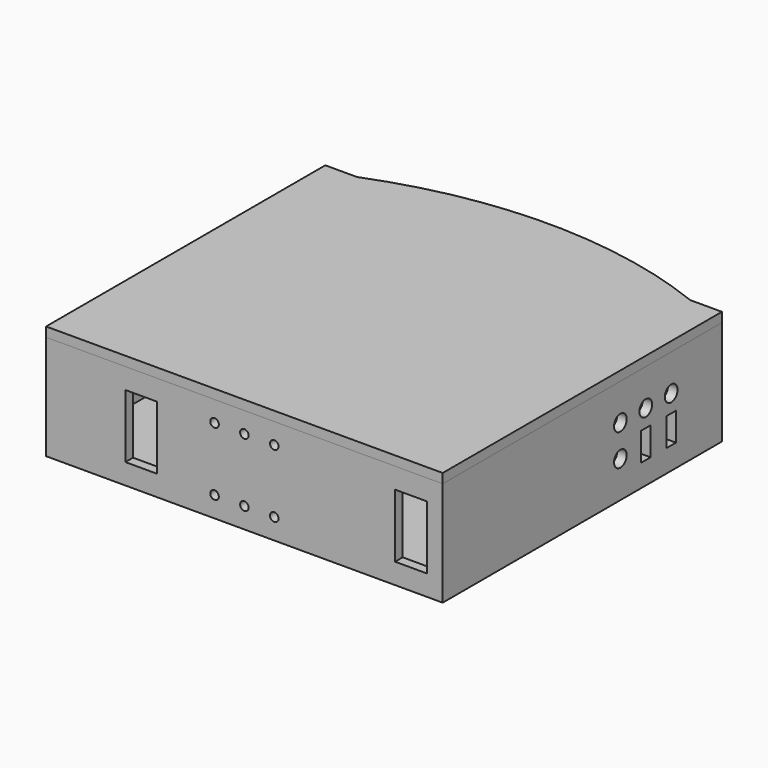
from build123d import *

# Parameters (mm, degrees)
F1_DEPTH  = 3
F3_DEPTH  = 30
F4_W      = 26.5
F4_H      = 20
F5_DEPTH  = 3
F6_W      = 30
F6_H      = 20
F7_DEPTH  = 1.5
F8_W      = 29.718
F8_H      = 21.844
F9_DEPTH  = 3
F10_W     = 10
F10_H     = 20
F11_DEPTH = 3
F12_R     = 2.5
F12_W     = 3.81
F12_H     = 8.89
F13_DEPTH = 3
F15_DEPTH = 3
F17_DEPTH = 3
F18_R     = 1.35
F19_DEPTH = 3


with BuildPart() as f1:
    # F0 (on Top) → F1 (new body)
    with BuildSketch(Plane.XY):
        with BuildLine():
            Line((0, 110), (0, 0))
            Line((0, 0), (125, 0))
            Line((125, 0), (125, 110))
            Line((125, 110), (115, 110))
            ThreePointArc((115, 110), (62.5, 120), (10, 110))
            Line((10, 110), (0, 110))
        make_face()
    extrude(amount=F1_DEPTH)

    # F2 (on face) → F3 (join)
    with BuildSketch(Plane.XY.offset(3)):
        with BuildLine():
            ThreePointArc((115, 110), (62.5, 120), (10, 110))
            Line((10, 110), (0, 110))
            Line((0, 110), (0, 0))
            Line((0, 0), (125, 0))
            Line((125, 0), (125, 110))
            Line((125, 110), (115, 110))
        make_face()
        with BuildLine():
            Line((122, 107), (122, 3))
            Line((122, 3), (3, 3))
            Line((3, 3), (3, 107))
            Line((3, 107), (10.5745727028, 107))
            ThreePointArc((10.5745727028, 107), (62.5, 117), (114.4254272972, 107))
            Line((114.4254272972, 107), (122, 107))
        make_face(mode=Mode.SUBTRACT)
    extrude(amount=F3_DEPTH)

    # F4 (on face) → F5 (cut, through all)
    with BuildSketch(Plane(origin=(0, 0, 0), x_dir=(0, -1, 0), z_dir=(-1, 0, 0))):
        with Locations((-23.25, 16.5)):
            Rectangle(F4_W, F4_H)
    extrude(amount=-F5_DEPTH, mode=Mode.SUBTRACT)

    # F6 (on face) → F7 (cut)
    with BuildSketch(Plane.YZ.offset(3)):
        with Locations((23.25, 16.5)):
            Rectangle(F6_W, F6_H)
    extrude(amount=-F7_DEPTH, mode=Mode.SUBTRACT)

    # F8 (on face) → F9 (cut, through all)
    with BuildSketch(Plane(origin=(0, 0, 0), x_dir=(0, -1, 0), z_dir=(-1, 0, 0))):
        with Locations((-81.359, 16.5)):
            Rectangle(F8_W, F8_H)
    extrude(amount=-F9_DEPTH, mode=Mode.SUBTRACT)

    # F10 (on face) → F11 (cut, through all)
    with BuildSketch(Plane.XZ):
        with Locations((30, 16.5)):
            Rectangle(F10_W, F10_H)
        with Locations((115, 16.5)):
            Rectangle(F10_W, F10_H)
    extrude(amount=-F11_DEPTH, mode=Mode.SUBTRACT)

    # F12 (on face) → F13 (cut, through all)
    with BuildSketch(Plane.YZ.offset(125)):
        with Locations((90, 21.5)):
            Circle(F12_R)
        with Locations((80, 21.5)):
            Circle(F12_R)
        with Locations((70, 21.5)):
            Circle(F12_R)
        with Locations((70, 11.5)):
            Circle(F12_R)
        with Locations((80, 11.5)):
            Rectangle(F12_W, F12_H)
        with Locations((90, 11.5)):
            Rectangle(F12_W, F12_H)
    extrude(amount=-F13_DEPTH, mode=Mode.SUBTRACT)

    # F18 (on face) → F19 (cut, through all)
    with BuildSketch(Plane.XZ):
        with Locations((53.089, 6.5)):
            Circle(F18_R)
        with Locations((53.089, 26.5)):
            Circle(F18_R)
        with Locations((62.5, 6.5)):
            Circle(F18_R)
        with Locations((62.5, 26.5)):
            Circle(F18_R)
        with Locations((71.911, 6.5)):
            Circle(F18_R)
        with Locations((71.911, 26.5)):
            Circle(F18_R)
    extrude(amount=-F19_DEPTH, mode=Mode.SUBTRACT)


with BuildPart() as f15:
    # F14 (on face) → F15 (new body)
    with BuildSketch(Plane.XY.offset(33)):
        with BuildLine():
            Line((0, 110), (0, 0))
            Line((0, 0), (125, 0))
            Line((125, 0), (125, 110))
            Line((125, 110), (115, 110))
            ThreePointArc((115, 110), (62.5, 120), (10, 110))
            Line((10, 110), (0, 110))
        make_face()
    extrude(amount=F15_DEPTH)

    # F16 (on face) → F17 (join)
    with BuildSketch(Plane(origin=(0, 0, 33), x_dir=(1, 0, 0), z_dir=(0, 0, -1))):
        with BuildLine():
            Line((3, -3), (3, -107))
            Line((3, -107), (10.5745727028, -107))
            ThreePointArc((10.5745727028, -107), (62.5, -117), (114.4254272972, -107))
            Line((114.4254272972, -107), (122, -107))
            Line((122, -107), (122, -3))
            Line((122, -3), (3, -3))
        make_face()
        with BuildLine():
            Line((119, -6), (119, -104))
            Line((119, -104), (113.8444252086, -104))
            ThreePointArc((113.8444252086, -104), (62.5, -114), (11.1555747914, -104))
            Line((11.1555747914, -104), (6, -104))
            Line((6, -104), (6, -6))
            Line((6, -6), (119, -6))
        make_face(mode=Mode.SUBTRACT)
    extrude(amount=F17_DEPTH)


solid = Compound([f1.part, f15.part])
